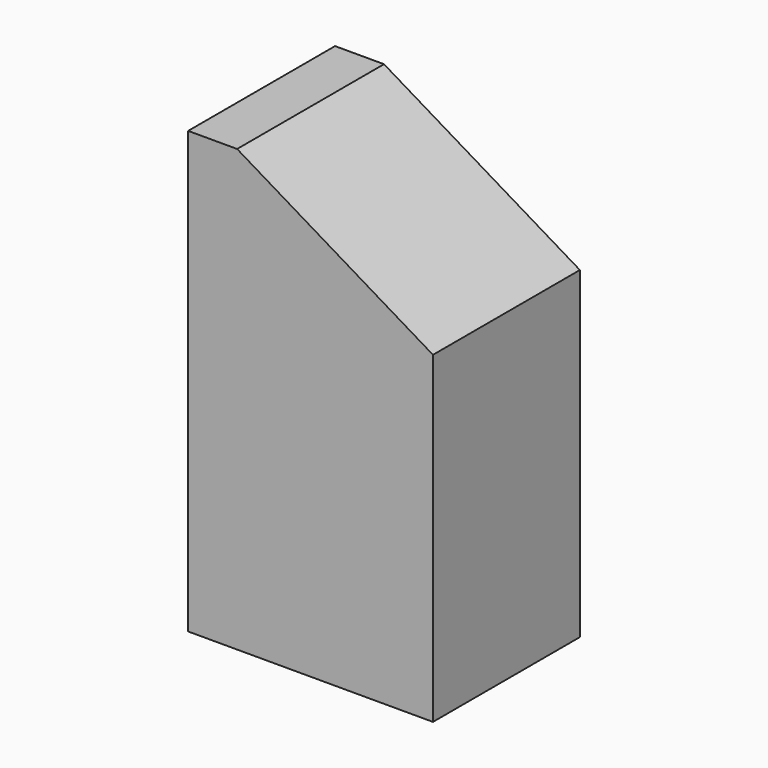
from build123d import *

# Parameters (mm, degrees)
SKETCH008_W     = 16
SKETCH008_H     = 16
PAD006_DEPTH    = 28.8
POCKET002_DEPTH = 16
PAD129_DEPTH    = 16
SKETCH186_W     = 16
SKETCH186_H     = 2
POCKET068_DEPTH = 30


with BuildPart() as part:
    # Sketch008 (on Face80 of Binder002) → Pad006 (new body)
    with BuildSketch(Plane.XY.offset(-28.8)):
        with Locations((135.8, 96)):
            Rectangle(SKETCH008_W, SKETCH008_H)
    extrude(amount=PAD006_DEPTH)

    # Sketch009 (on Face2 of Pad006) → Pocket002 (cut)
    with BuildSketch(Plane.XZ.offset(-88)):
        Polygon((143.8, -9.6), (127.8, 0), (143.8, 0), align=None)
    extrude(amount=-POCKET002_DEPTH, mode=Mode.SUBTRACT)

    # Sketch129 (on Face2 of Pocket002) → Pad129 (join)
    with BuildSketch(Plane(origin=(0, 104, 0), x_dir=(-1, 0, 0), z_dir=(0, 1, 0))):
        Polygon((-127.8, 0), (-131, 0), (-143.8, -7.68), (-143.8, -10.88), (-131, -3.2), (-127.8, -3.2), align=None)
    extrude(amount=-PAD129_DEPTH)

    # Sketch186 (on Face1 of Pad129) → Pocket068 (cut)
    with BuildSketch(Plane(origin=(0, 0, -28.8), x_dir=(1, 0, 0), z_dir=(0, 0, -1))):
        with Locations((135.8, -89)):
            Rectangle(SKETCH186_W, SKETCH186_H)
        with Locations((135.8, -103)):
            Rectangle(SKETCH186_W, SKETCH186_H)
    extrude(amount=-POCKET068_DEPTH, mode=Mode.SUBTRACT)


solid = part.part
